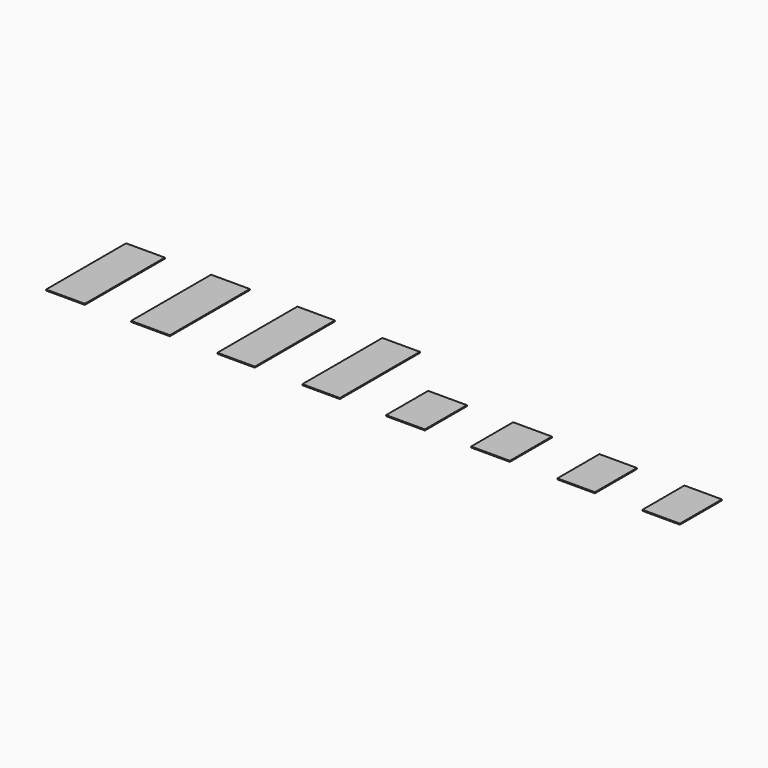
from build123d import *

# Parameters (mm, degrees)
F1_W     = 620
F1_H     = 1600
F1_W_2   = 600
F1_H_2   = 840
F2_DEPTH = 16


with BuildPart() as f2:
    # F1 (on Top) → F2 (new body)
    with BuildSketch(Plane.XY):
        with Locations((670, 820)):
            Rectangle(F1_W, F1_H)
        with Locations((2030, 820)):
            Rectangle(F1_W, F1_H)
        with Locations((3400, 820)):
            Rectangle(F1_W_2, F1_H)
        with Locations((4760, 820)):
            Rectangle(F1_W_2, F1_H)
        with Locations((6110, 440)):
            Rectangle(F1_W, F1_H_2)
        with Locations((7470, 440)):
            Rectangle(F1_W, F1_H_2)
        with Locations((8840, 440)):
            Rectangle(F1_W_2, F1_H_2)
        with Locations((10200, 440)):
            Rectangle(F1_W_2, F1_H_2)
    extrude(amount=F2_DEPTH)


solid = f2.part
